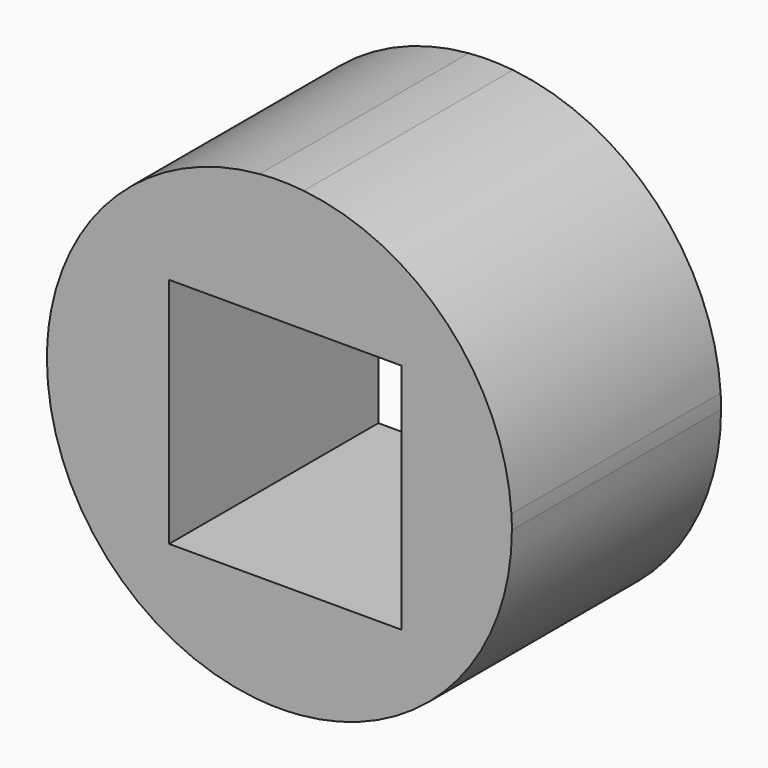
from build123d import *

# Parameters (mm, degrees)
F0_R     = 45.8082215722
F0_W     = 50.8
F0_H     = 50.8
F1_DEPTH = 57.15


with BuildPart() as f1:
    # F0 (on Front) → F1 (new body)
    with BuildSketch(Plane.XZ):
        with BuildLine():
            ThreePointArc((50.3805792284, -6.5143868947), (50.6950363685, -3.263937438), (50.8, 0))
            ThreePointArc((50.8, 0), (50.7758305884, 1.5668529167), (50.7033453519, 3.132214892))
            ThreePointArc((50.7033453519, 3.132214892), (36.6935912077, 35.1314725606), (5.3336979084, 50.5192207642))
            ThreePointArc((5.3336979084, 50.5192207642), (0.5040836669, 50.7974989508), (-4.3301018727, 50.6151184704))
            ThreePointArc((-4.3301018727, 50.6151184704), (-33.9875795574, 37.7555881404), (-49.88306, 9.6083466339))
            ThreePointArc((-49.88306, 9.6083466339), (-50.5702454414, 4.826), (-50.8, 0))
            ThreePointArc((-50.8, 0), (-37.7160446944, -34.0314556346), (-5.2039380863, -50.5327520366))
            ThreePointArc((-5.2039380863, -50.5327520366), (-0.3797906487, -50.7985802859), (4.4477921681, -50.6049122599))
            ThreePointArc((4.4477921681, -50.6049122599), (35.1785614294, -36.6484490225), (50.3805792284, -6.5143868947))
        make_face()
        Circle(F0_R, mode=Mode.SUBTRACT)
        Circle(F0_R)
        with Locations((1.3111739695, -1.5712582231)):
            Rectangle(F0_W, F0_H, mode=Mode.SUBTRACT)
    extrude(amount=F1_DEPTH)


solid = f1.part
